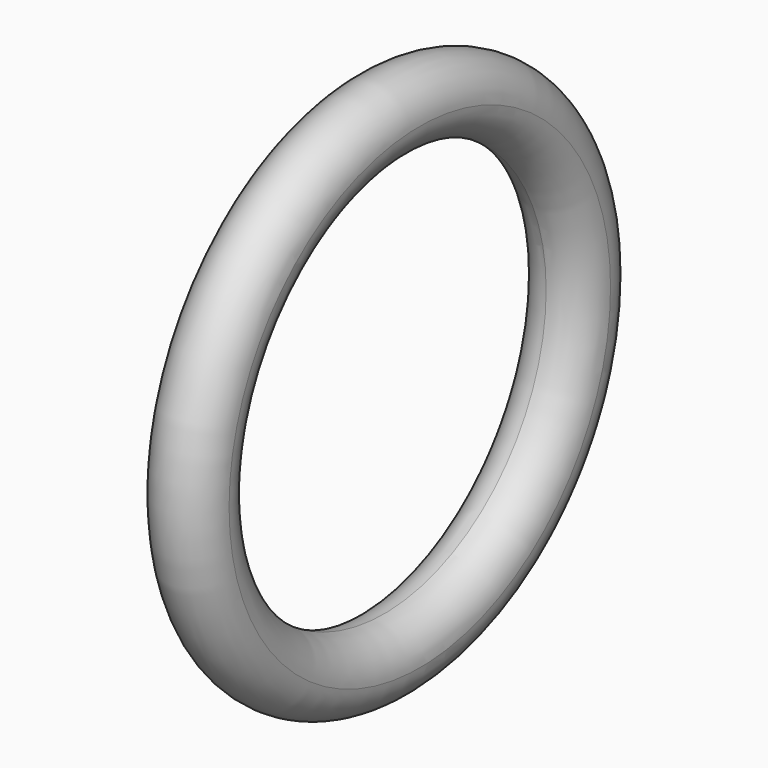
from build123d import *


with BuildPart() as f1:
    # F0 (on Top) → F1 (revolve)
    with BuildSketch(Plane.XY):
        with BuildLine():
            ThreePointArc((1.5, 10), (-1.06066, 11.06066), (0, 8.5))
            ThreePointArc((0, 8.5), (1.06066, 8.93934), (1.5, 10))
        make_face()
    revolve(axis=Axis((5, 0, 0), (1, 0, 0)))


solid = f1.part
